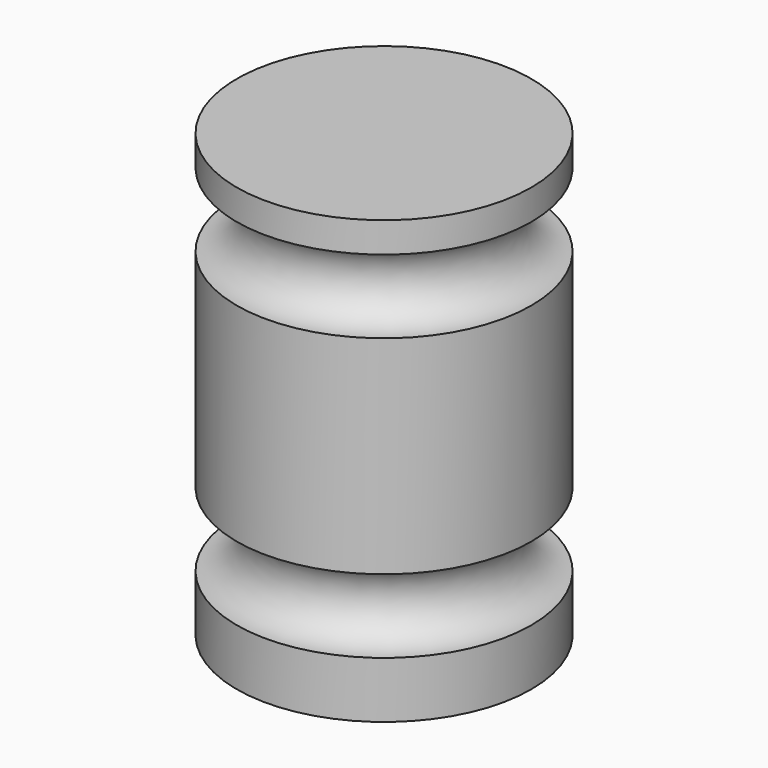
from build123d import *


with BuildPart() as f1:
    # F0 (on Front) → F1 (revolve)
    with BuildSketch(Plane.XZ):
        with BuildLine():
            Line((-25.4, 0), (0, 0))
            Line((0, 0), (0, 9.730925))
            ThreePointArc((0, 9.730925), (-6.35, 16.080925), (0, 22.430925))
            Line((0, 22.430925), (0, 58.269668))
            ThreePointArc((0, 58.269668), (-6.35, 64.619668), (0, 70.969668))
            Line((0, 70.969668), (0, 76.2))
            Line((0, 76.2), (-25.4, 76.2))
            Line((-25.4, 76.2), (-25.4, 0))
        make_face()
    revolve(axis=Axis((-25.4, 0, 38.1), (0, 0, 1)))


solid = f1.part
